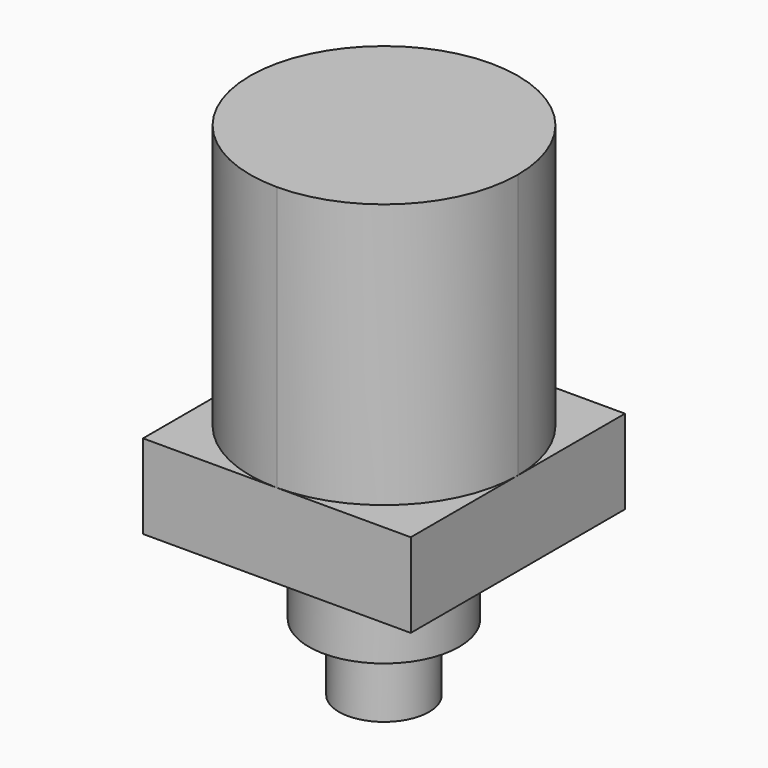
from build123d import *

# Parameters (mm, degrees)
F0_R     = 25
F0_R_2   = 15
F1_DEPTH = 28
F2_DEPTH = 116
F3_DEPTH = 28.5
F4_DEPTH = 50.8


with BuildPart() as f1:
    # F0 (on Top) → F1 (new body)
    with BuildSketch(Plane.XY):
        with BuildLine():
            Line((0, -44.5), (44.5, -44.5))
            Line((44.5, -44.5), (44.5, 0))
            ThreePointArc((44.5, 0), (31.466252, -31.466252), (0, -44.5))
        make_face()
        with BuildLine():
            Line((-44.5, -44.5), (0, -44.5))
            ThreePointArc((0, -44.5), (-31.466252, -31.466252), (-44.5, 0))
            Line((-44.5, 0), (-44.5, -44.5))
        make_face()
        with BuildLine():
            ThreePointArc((0, 44.5), (31.466252, 31.466252), (44.5, 0))
            Line((44.5, 0), (44.5, 44.5))
            Line((44.5, 44.5), (0, 44.5))
        make_face()
        with BuildLine():
            Line((-44.5, 44.5), (-44.5, 0))
            ThreePointArc((-44.5, 0), (-31.466252, 31.466252), (0, 44.5))
            Line((0, 44.5), (-44.5, 44.5))
        make_face()
        with BuildLine():
            Line((-44.5, 44.5), (-44.5, 0))
            ThreePointArc((-44.5, 0), (-31.466252, 31.466252), (0, 44.5))
            Line((0, 44.5), (-44.5, 44.5))
        make_face()
        Circle(F0_R)
        Circle(F0_R_2, mode=Mode.SUBTRACT)
    extrude(amount=F1_DEPTH)

    # F0 (on Top) → F2 (join)
    with BuildSketch(Plane.XY):
        with BuildLine():
            ThreePointArc((-44.5, 0), (-31.466252, -31.466252), (0, -44.5))
            ThreePointArc((0, -44.5), (31.466252, -31.466252), (44.5, 0))
            ThreePointArc((44.5, 0), (31.466252, 31.466252), (0, 44.5))
            ThreePointArc((0, 44.5), (-31.466252, 31.466252), (-44.5, 0))
        make_face()
        Circle(F0_R, mode=Mode.SUBTRACT)
        Circle(F0_R)
        Circle(F0_R_2, mode=Mode.SUBTRACT)
        Circle(F0_R_2)
    extrude(amount=F2_DEPTH)

    # F0 (on Top) → F3 (join)
    with BuildSketch(Plane.XY):
        Circle(F0_R)
        Circle(F0_R_2, mode=Mode.SUBTRACT)
    extrude(amount=-F3_DEPTH)

    # F0 (on Top) → F4 (join)
    with BuildSketch(Plane.XY):
        Circle(F0_R_2)
    extrude(amount=-F4_DEPTH)


solid = f1.part
